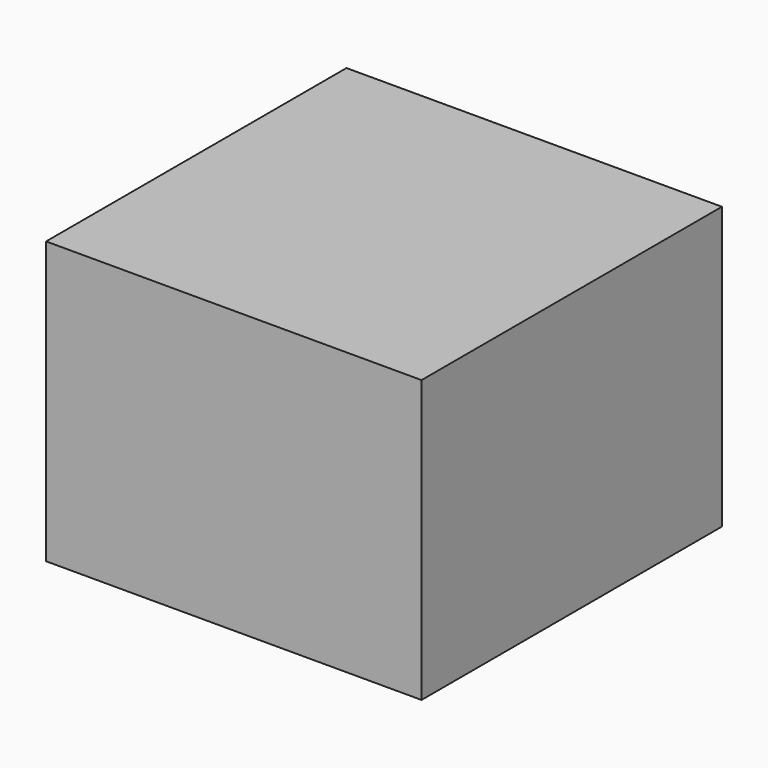
from build123d import *

# Parameters (mm, degrees)
BOX_W     = 60
BOX_H     = 60
BOX_DEPTH = 45


with BuildPart() as part:
    # Box → Box (new body)
    with BuildSketch(Plane.XY):
        with Locations((30, 30)):
            Rectangle(BOX_W, BOX_H)
    extrude(amount=BOX_DEPTH)


solid = part.part
